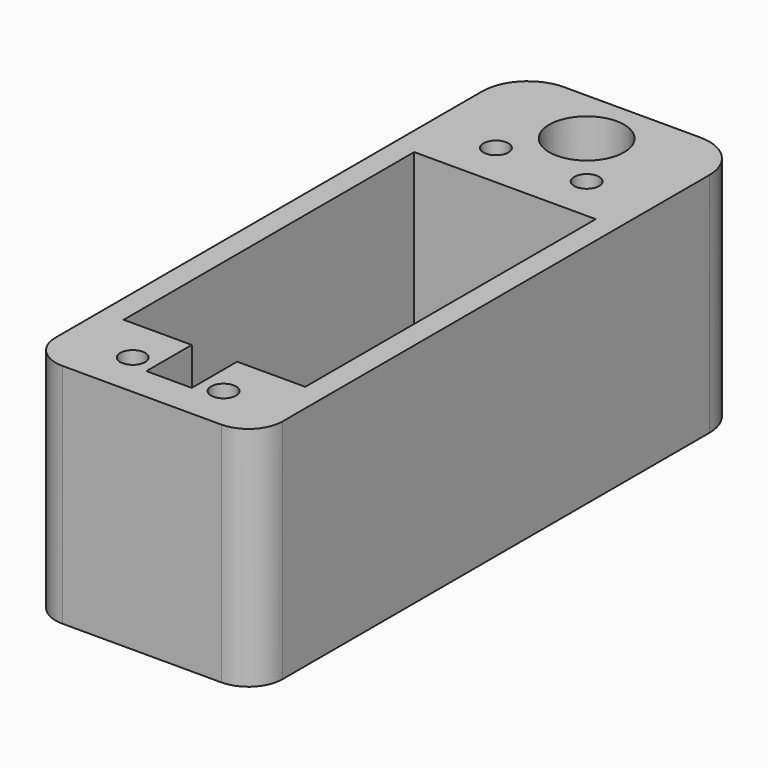
from build123d import *

# Parameters (mm, degrees)
F0_R     = 4.191
F1_DEPTH = 25.4
F3_R     = 1.397
F4_DEPTH = 10.16
F2_R     = 0.762
F5_DEPTH = 5.08


with BuildPart() as f1:
    # F0 (on Top) → F1 (new body)
    with BuildSketch(Plane.XY):
        with BuildLine():
            Line((7.62, 17.78), (-7.62, 17.78))
            ThreePointArc((-7.62, 17.78), (-11.212102, 16.292102), (-12.7, 12.7))
            Line((-12.7, 12.7), (-12.7, -46.99))
            ThreePointArc((-12.7, -46.99), (-11.584077, -49.684077), (-8.89, -50.8))
            Line((-8.89, -50.8), (8.89, -50.8))
            ThreePointArc((8.89, -50.8), (11.584077, -49.684077), (12.7, -46.99))
            Line((12.7, -46.99), (12.7, 12.7))
            ThreePointArc((12.7, 12.7), (11.212102, 16.292102), (7.62, 17.78))
        make_face()
        Polygon((-10.16, -40.64), (-10.16, 0), (10.16, 0), (10.16, -40.64), (2.54, -40.64), (2.54, -46.99), (-2.54, -46.99), (-2.54, -40.64), align=None, mode=Mode.SUBTRACT)
        with Locations((0, 11.43)):
            Circle(F0_R, mode=Mode.SUBTRACT)
    extrude(amount=F1_DEPTH)

    # F3 (on face) → F4 (cut)
    with BuildSketch(Plane.XY.offset(25.4)):
        with Locations((-5.08, 5.08)):
            Circle(F3_R)
        with Locations((5.08, 5.08)):
            Circle(F3_R)
        with Locations((5.08, -45.72)):
            Circle(F3_R)
        with Locations((-5.08, -45.72)):
            Circle(F3_R)
    extrude(amount=-F4_DEPTH, mode=Mode.SUBTRACT)

    # F2 (on face) → F5 (cut)
    with BuildSketch(Plane(origin=(0, 17.78, 0), x_dir=(-1, 0, 0), z_dir=(0, 1, 0))):
        with Locations((0, 15.24)):
            Circle(F2_R)
    extrude(amount=-F5_DEPTH, mode=Mode.SUBTRACT)


solid = f1.part
